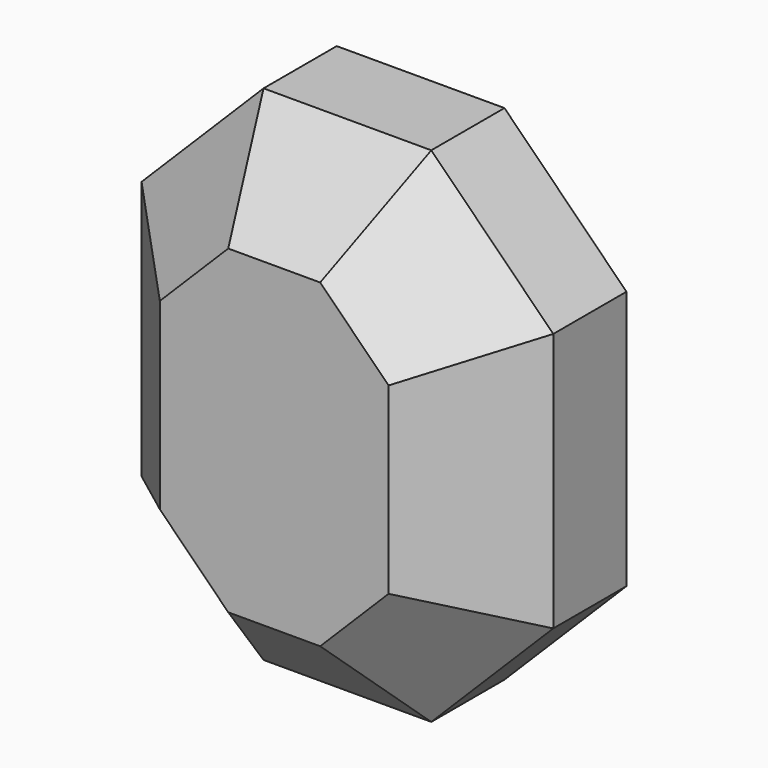
from build123d import *

# Parameters (mm, degrees)
F0_W     = 58.72801
F0_H     = 71.178346
F1_DEPTH = 25.4
F2_SIZE  = 15.24
F3_W     = 685.8
F3_H     = 838.2
F4_DEPTH = 304.8
F5_SIZE  = 203.2
F6_SIZE  = 152.4
F7_W     = 18.585406
F7_H     = 26.208304
F8_DEPTH = 10.16
F9_SIZE  = 5.08
F10_SIZE = 2.54


with BuildPart() as f1:
    # F0 (on Front) → F1 (new body)
    with BuildSketch(Plane.XZ):
        Rectangle(F0_W, F0_H)
    extrude(amount=F1_DEPTH)

    # F2
    f2_edges = [f1.edges().sort_by_distance(p)[0] for p in [
        (0, -25.4, -35.589173),
        (29.364005, -25.4, 0),
        (0, -25.4, 35.589173),
        (-29.364005, -25.4, 0),
        (29.364005, -12.7, -35.589173),
        (-29.364005, -12.7, -35.589173),
        (-29.364005, -12.7, 35.589173),
        (29.364005, -12.7, 35.589173),
    ]]
    chamfer(f2_edges, length=F2_SIZE)


with BuildPart() as f4:
    # F3 (on Front) → F4 (new body)
    with BuildSketch(Plane.XZ):
        Rectangle(F3_W, F3_H)
    extrude(amount=F4_DEPTH)

    # F5
    f5_edges = [f4.edges().sort_by_distance(p)[0] for p in [
        (342.9, -152.4, 419.1),
        (342.9, -152.4, -419.1),
        (-342.9, -152.4, -419.1),
        (-342.9, -152.4, 419.1),
    ]]
    chamfer(f5_edges, length=F5_SIZE)

    # F6
    f6_edges = [f4.edges().sort_by_distance(p)[0] for p in [
        (0, -304.8, -419.1),
        (-241.3, -304.8, -317.5),
        (241.3, -304.8, -317.5),
        (-342.9, -304.8, 0),
        (342.9, -304.8, 0),
        (-241.3, -304.8, 317.5),
        (241.3, -304.8, 317.5),
        (0, -304.8, 419.1),
    ]]
    chamfer(f6_edges, length=F6_SIZE)


with BuildPart() as f8:
    # F7 (on Front) → F8 (new body)
    with BuildSketch(Plane.XZ):
        Rectangle(F7_W, F7_H)
    extrude(amount=F8_DEPTH)

    # F9
    f9_edges = [f8.edges().sort_by_distance(p)[0] for p in [
        (-9.292703, -5.08, 13.104152),
        (9.292703, -5.08, 13.104152),
        (-9.292703, -5.08, -13.104152),
        (9.292703, -5.08, -13.104152),
    ]]
    chamfer(f9_edges, length=F9_SIZE)

    # F10
    f10_edges = [f8.edges().sort_by_distance(p)[0] for p in [
        (0, -10.16, -13.104152),
        (-6.752703, -10.16, -10.564152),
        (6.752703, -10.16, -10.564152),
        (-9.292703, -10.16, 0),
        (9.292703, -10.16, 0),
        (-6.752703, -10.16, 10.564152),
        (6.752703, -10.16, 10.564152),
        (0, -10.16, 13.104152),
    ]]
    chamfer(f10_edges, length=F10_SIZE)


solid = Compound([f1.part, f4.part, f8.part])
